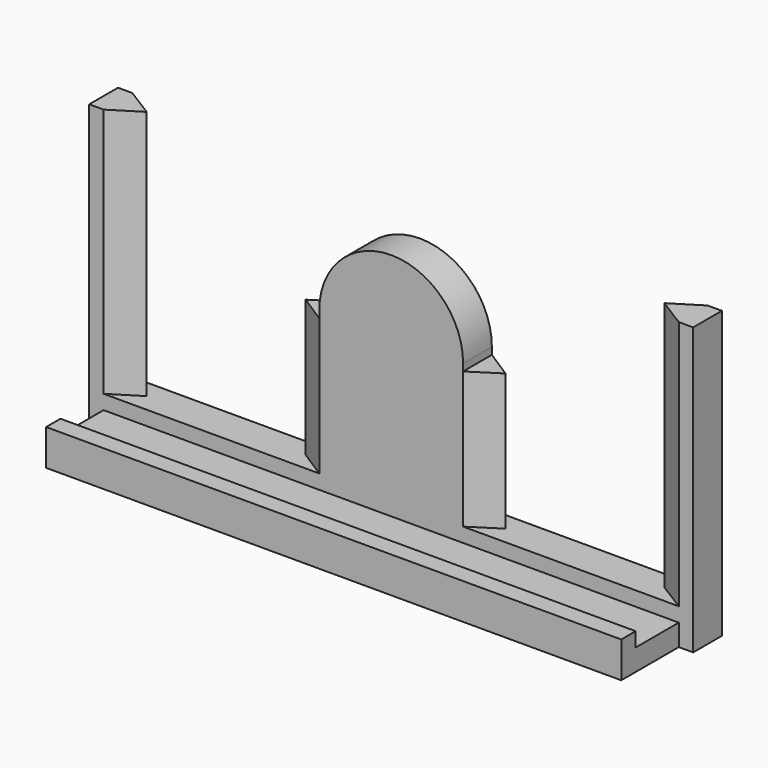
from build123d import *

# Parameters (mm, degrees)
F1_DEPTH  = 6.35
F3_DEPTH  = 24.13
F4_W      = 101.6
F4_H      = 6.35
F5_DEPTH  = 6.35
F7_DEPTH  = 12.7
F8_W      = 9.525
F8_H      = 2.54
F9_DEPTH  = 114.282591
F10_W     = 9.525
F10_H     = 2.54
F11_DEPTH = 12.7
F13_DEPTH = 12.7
F19_DEPTH = 44.196
F21_DEPTH = 2.54
F23_DEPTH = 2.54
F24_R     = 3.81
F25_DEPTH = 6.35
F26_W     = 2.9521
F26_H     = 3.065642
F27_DEPTH = 20.5232


with BuildPart() as f1:
    # F0 (on Front) → F1 (new body)
    with BuildSketch(Plane.XZ):
        with BuildLine():
            Line((0, 25.4), (0, 0))
            Line((0, 0), (25.4, 0))
            Line((25.4, 0), (25.4, 25.4))
            ThreePointArc((25.4, 25.4), (12.7, 38.1), (0, 25.4))
        make_face()
    extrude(amount=F1_DEPTH)

    # F2 (on face) → F3 (join)
    with BuildSketch(Plane(origin=(0, 0, 0), x_dir=(1, 0, 0), z_dir=(0, 0, -1))):
        Polygon((-4.953, 3.175), (0, 0), (0, 6.35), align=None)
        Polygon((30.353, 3.175), (25.4, 6.35), (25.4, 0), align=None)
    extrude(amount=-F3_DEPTH)

    # F4 (on face) → F5 (join)
    with BuildSketch(Plane(origin=(0, 0, 0), x_dir=(1, 0, 0), z_dir=(0, 0, -1))):
        with Locations((12.7, 3.175)):
            Rectangle(F4_W, F4_H)
    extrude(amount=F5_DEPTH)

    # F6 (on face) → F7 (join)
    with BuildSketch(Plane.XZ.offset(6.35)):
        Polygon((25.4, 0), (0, 0), (-38.1, 0), (-38.1, -6.35), (63.5, -6.35), (63.5, 0), align=None)
    extrude(amount=F7_DEPTH)

    # F8 (on face) → F9 (cut)
    with BuildSketch(Plane.YZ.offset(63.5)):
        with Locations((-11.1125, -1.27)):
            Rectangle(F8_W, F8_H)
    extrude(amount=-F9_DEPTH, mode=Mode.SUBTRACT)

    # F18 (on face) + F17 (on face) → F19 (join)
    with BuildSketch(Plane.XY):
        Polygon((63.5, 0), (58.42, -3.175), (63.5, -6.35), align=None)
    with BuildSketch(Plane.XY):
        Polygon((-33.02, -3.175), (-38.1, 0), (-38.1, -6.35), align=None)
    extrude(amount=F19_DEPTH)

    # F20 (on face) → F21 (join)
    with BuildSketch(Plane(origin=(-38.1, 0, 0), x_dir=(0, -1, 0), z_dir=(-1, 0, 0))):
        Polygon((6.35, -2.54), (6.35, 0), (6.35, 44.196), (0, 44.196), (0, 0), (0, -6.35), (6.35, -6.35), align=None)
    extrude(amount=F21_DEPTH)

    # F22 (on face) → F23 (join)
    with BuildSketch(Plane.YZ.offset(63.5)):
        Polygon((-6.35, 0), (-6.35, -2.54), (-6.35, -6.35), (0, -6.35), (0, 0), (0, 44.196), (-6.35, 44.196), align=None)
    extrude(amount=F23_DEPTH)

    # F24 (on face) → F25 (join)
    with BuildSketch(Plane(origin=(0, 0, 0), x_dir=(-1, 0, 0), z_dir=(0, 1, 0))):
        with Locations((-12.7, 25.4)):
            Circle(F24_R)
    extrude(amount=F25_DEPTH)

    # F26 (on Right) → F27 (cut)
    with BuildSketch(Plane.YZ):
        with Locations((2.497112, 21.865308)):
            Rectangle(F26_W, F26_H)
    extrude(amount=F27_DEPTH, mode=Mode.SUBTRACT)


with BuildPart() as f11:
    # F10 (on face) → F11 (new body)
    with BuildSketch(Plane.YZ.offset(63.5)):
        with Locations((-11.1125, -1.27)):
            Rectangle(F10_W, F10_H)
    extrude(amount=F11_DEPTH)


with BuildPart() as f13:
    # F12 (on face) → F13 (new body)
    with BuildSketch(Plane.YZ.offset(63.5)):
        Polygon((-6.35, -6.35), (-6.35, -2.54), (-15.875, -2.54), (-15.875, 0), (-19.05, 0), (-19.05, -6.35), align=None)
    extrude(amount=F13_DEPTH)


solid = f1.part
